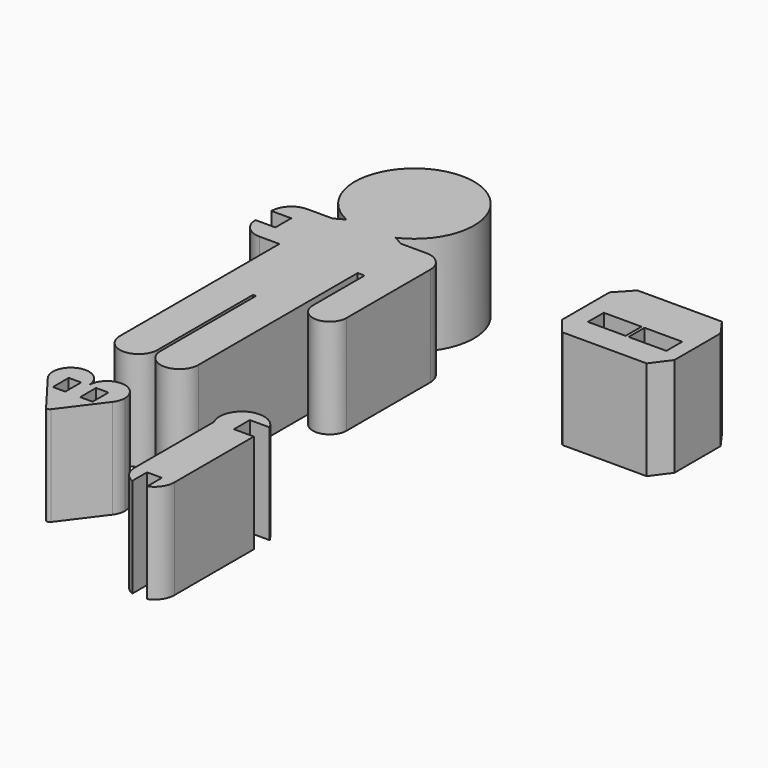
from build123d import *

# Parameters (mm, degrees)
F3_DEPTH = 25.4
F0_W     = 9.652
F0_H     = 5.08
F1_W     = 3.175
F1_H     = 5.08


with BuildPart() as f3:
    # F0 (on Top) → F3 (new body)
    with BuildSketch(Plane.XY):
        with BuildLine():
            Line((-28.1917748163, 12.9473765527), (-28.1917748163, 39.7085584502))
            ThreePointArc((-28.1917748163, 39.7085584502), (-29.6796723678, 43.3006608987), (-33.2717748163, 44.7885584502))
            Line((-33.2717748163, 44.7885584502), (-39.762626545, 44.7885584502))
            Line((-39.762626545, 44.7885584502), (-42.2371126216, 46.139429306))
            ThreePointArc((-42.2371126216, 46.139429306), (-48.509008117, 75.2685585129), (-54.7848715272, 46.1402839345))
            Line((-54.7848715272, 46.1402839345), (-57.2609230876, 44.7885584502))
            Line((-57.2609230876, 44.7885584502), (-63.7517748163, 44.7885584502))
            ThreePointArc((-63.7517748163, 44.7885584502), (-67.3438772647, 43.3006608987), (-68.8317748163, 39.7085584502))
            Line((-68.8317748163, 39.7085584502), (-63.7517748163, 39.7085584502))
            Line((-63.7517748163, 39.7085584502), (-63.7517748163, 34.6285584502))
            Line((-63.7517748163, 34.6285584502), (-68.8317748163, 34.6285584502))
            ThreePointArc((-68.8317748163, 34.6285584502), (-67.3438772647, 31.0364560018), (-63.7517748163, 29.5485584502))
            Line((-63.7517748163, 29.5485584502), (-58.6717748163, 29.5485584502))
            Line((-58.6717748163, 29.5485584502), (-58.6717748163, -21.4341506362))
            ThreePointArc((-58.6717748163, -21.4341506362), (-53.8369461328, -26.2601425606), (-49.0198071187, -21.4164932988))
            Line((-49.0198071187, -21.4164932988), (-49.0198071187, 9.0458493638))
            Line((-49.0198071187, 9.0458493638), (-48.2577748163, 9.0458493638))
            Line((-48.2577748163, 9.0458493638), (-48.2577748163, -21.4341506362))
            ThreePointArc((-48.2577748163, -21.4341506362), (-43.4317748163, -26.2601506362), (-38.6057748163, -21.4341506362))
            Line((-38.6057748163, -21.4341506362), (-38.6057748163, 12.9473765527))
            Line((-38.6057748163, 12.9473765527), (-38.6057748163, 29.4945929002))
            Line((-38.6057748163, 29.4945929002), (-36.8378617594, 29.4945929002))
            Line((-36.8378617594, 29.4945929002), (-36.8378617594, 12.9473765527))
            ThreePointArc((-36.8378617594, 12.9473765527), (-32.5148182878, 8.6243330811), (-28.1917748163, 12.9473765527))
        make_face()
    extrude(amount=F3_DEPTH)


with BuildPart() as f3b:
    # F0 (on Top) → F3, piece 2 (new body)
    with BuildSketch(Plane.XY):
        with BuildLine():
            Line((-15.6940906626, -33.6235351861), (-10.6140906626, -33.6235351861))
            ThreePointArc((-10.6140906626, -33.6235351861), (-18.2340906626, -31.0835351861), (-20.7740906626, -38.7035351861))
            Line((-20.7740906626, -38.7035351861), (-20.7740906626, -64.1035351861))
            ThreePointArc((-20.7740906626, -64.1035351861), (-19.9062041463, -66.9433415175), (-17.5990906626, -68.8128212254))
            Line((-17.5990906626, -68.8128212254), (-17.5990906626, -64.1035351861))
            Line((-17.5990906626, -64.1035351861), (-15.6940906626, -64.1035351861))
            Line((-15.6940906626, -64.1035351861), (-13.7890906626, -64.1035351861))
            Line((-13.7890906626, -64.1035351861), (-13.7890906626, -68.8128212254))
            ThreePointArc((-13.7890906626, -68.8128212254), (-11.4819771788, -66.9433415175), (-10.6140906626, -64.1035351861))
            Line((-10.6140906626, -64.1035351861), (-10.6140906626, -38.7035351861))
            Line((-10.6140906626, -38.7035351861), (-15.6940906626, -38.7035351861))
            Line((-15.6940906626, -38.7035351861), (-15.6940906626, -33.6235351861))
        make_face()
    extrude(amount=F3_DEPTH)


with BuildPart() as f3c:
    # F0 (on Top) → F3, piece 3 (new body)
    with BuildSketch(Plane.XY):
        Polygon((30.8973955526, 35.0257876711), (34.307523109, 39.6376268461), (34.307523109, 49.1508445693), (34.307523109, 54.3975071411), (31.3398899744, 58.5292266111), (13.4937340529, 58.5292266111), (9.7498899744, 58.5292266111), (5.8972679963, 54.3975071411), (5.8972679963, 49.1707248643), (5.8972679963, 48.6707248643), (5.8972679963, 39.1575071411), (9.3073955526, 35.0257876711), (13.6428794689, 35.0257876711), (14.216993131, 35.0257876711), align=None)
        with Locations((15.3378899744, 44.2537332261)):
            Rectangle(F0_W, F0_H, mode=Mode.SUBTRACT)
        with Locations((25.7518899744, 44.2537332261)):
            Rectangle(F0_W, F0_H, mode=Mode.SUBTRACT)
    extrude(amount=F3_DEPTH)


with BuildPart() as f3d:
    # F2 (on face) → F3, piece 4 (new body)
    with BuildSketch(Plane.XY):
        with BuildLine():
            ThreePointArc((-36.8378617594, 12.9473765527), (-32.5148182878, 8.6243330811), (-28.1917748163, 12.9473765527))
            Line((-28.1917748163, 12.9473765527), (-28.1917748163, 39.7085584502))
            ThreePointArc((-28.1917748163, 39.7085584502), (-29.6796723678, 43.3006608987), (-33.2717748163, 44.7885584502))
            Line((-33.2717748163, 44.7885584502), (-39.762626545, 44.7885584502))
            Line((-39.762626545, 44.7885584502), (-42.2371126216, 46.139429306))
            ThreePointArc((-42.2371126216, 46.139429306), (-48.509008117, 75.2685585129), (-54.7848715272, 46.1402839345))
            Line((-54.7848715272, 46.1402839345), (-57.2609230876, 44.7885584502))
            Line((-57.2609230876, 44.7885584502), (-63.7517748163, 44.7885584502))
            ThreePointArc((-63.7517748163, 44.7885584502), (-67.3438772647, 43.3006608987), (-68.8317748163, 39.7085584502))
            Line((-68.8317748163, 39.7085584502), (-63.7517748163, 39.7085584502))
            Line((-63.7517748163, 39.7085584502), (-63.7517748163, 34.6285584502))
            Line((-63.7517748163, 34.6285584502), (-68.8317748163, 34.6285584502))
            ThreePointArc((-68.8317748163, 34.6285584502), (-67.3438772647, 31.0364560018), (-63.7517748163, 29.5485584502))
            Line((-63.7517748163, 29.5485584502), (-58.6717748163, 29.5485584502))
            Line((-58.6717748163, 29.5485584502), (-58.6717748163, -21.4341506362))
            ThreePointArc((-58.6717748163, -21.4341506362), (-53.8369461328, -26.2601425606), (-49.0198071187, -21.4164932988))
            Line((-49.0198071187, -21.4164932988), (-49.0198071187, 9.0458493638))
            Line((-49.0198071187, 9.0458493638), (-48.2577748163, 9.0458493638))
            Line((-48.2577748163, 9.0458493638), (-48.2577748163, -21.4341506362))
            ThreePointArc((-48.2577748163, -21.4341506362), (-43.4317748163, -26.2601506362), (-38.6057748163, -21.4341506362))
            Line((-38.6057748163, -21.4341506362), (-38.6057748163, 12.9473765527))
            Line((-38.6057748163, 12.9473765527), (-38.6057748163, 29.4945929002))
            Line((-38.6057748163, 29.4945929002), (-36.8378617594, 29.4945929002))
            Line((-36.8378617594, 29.4945929002), (-36.8378617594, 12.9473765527))
        make_face()
    extrude(amount=F3_DEPTH)


with BuildPart() as f3e:
    # F1 (on Top) → F3, piece 5 (new body)
    with BuildSketch(Plane.XY):
        with BuildLine():
            ThreePointArc((-50.252426967, -41.8411232531), (-54.875226967, -37.2183232531), (-59.498026967, -41.8411232531))
            ThreePointArc((-59.498026967, -41.8411232531), (-59.2574612316, -43.3129597558), (-58.5608016099, -44.6316105568))
            Line((-58.5608016099, -44.6316105568), (-50.8629144293, -54.7987013579))
            ThreePointArc((-50.8629144293, -54.7987013579), (-50.2536117915, -55.10072882), (-49.6457351157, -54.7958415631))
            Line((-49.6457351157, -54.7958415631), (-42.0248895306, -44.6316105568))
            ThreePointArc((-42.0248895306, -44.6316105568), (-41.3215032913, -43.3144321396), (-41.0784557462, -41.8411232531))
            ThreePointArc((-41.0784557462, -41.8411232531), (-45.6654413566, -37.2541376427), (-50.252426967, -41.8411232531))
        make_face()
        with Locations((-53.744926967, -44.5068070035)):
            Rectangle(F1_W, F1_H, mode=Mode.SUBTRACT)
        with Locations((-46.759926967, -44.5068070035)):
            Rectangle(F1_W, F1_H, mode=Mode.SUBTRACT)
    extrude(amount=F3_DEPTH)


solid = Compound([f3.part, f3b.part, f3c.part, f3d.part, f3e.part])
